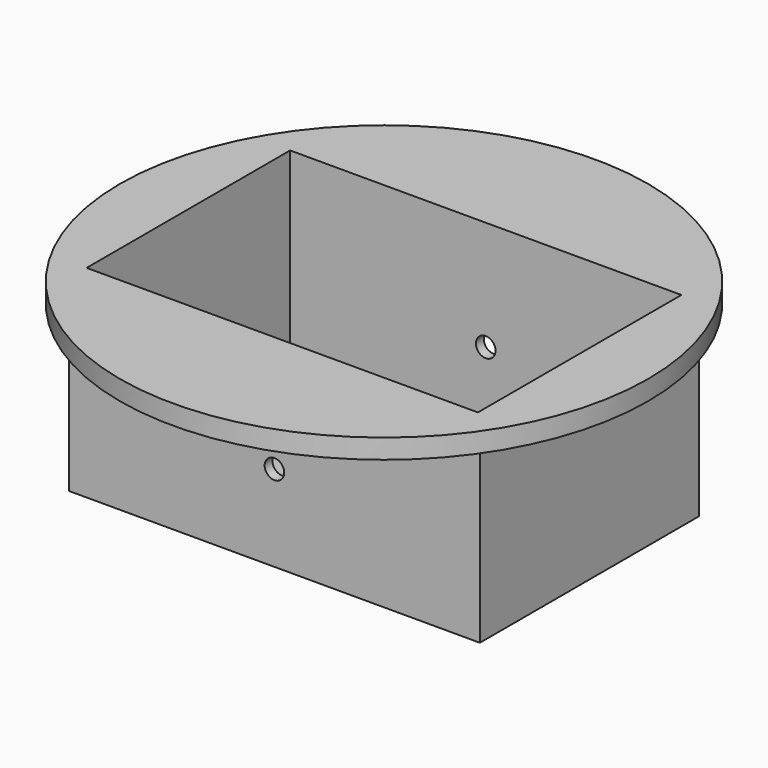
from build123d import *

# Parameters (mm, degrees)
F0_W     = 105
F0_H     = 70
F1_DEPTH = 50
F2_T     = -2.5
F3_R     = 67.5
F3_W     = 105
F3_H     = 70
F4_DEPTH = 5
F5_R     = 2.5
F6_DEPTH = 102.501


with BuildPart() as f1:
    # F0 (on Top) → F1 (new body)
    with BuildSketch(Plane.XY):
        Rectangle(F0_W, F0_H)
    extrude(amount=F1_DEPTH)

    # F2
    f2_openings = [f1.faces().sort_by_distance(p)[0] for p in [
        (0, 0, 50),
    ]]
    offset(amount=F2_T, openings=f2_openings)

    # F3 (on face) → F4 (join)
    with BuildSketch(Plane.XY.offset(50)):
        Circle(F3_R)
        Rectangle(F3_W, F3_H, mode=Mode.SUBTRACT)
    extrude(amount=-F4_DEPTH)

    # F5 (on face) → F6 (cut, through all)
    with BuildSketch(Plane.XZ.offset(35)):
        with Locations((0, 22)):
            Circle(F5_R)
    extrude(amount=-F6_DEPTH, mode=Mode.SUBTRACT)


solid = f1.part
